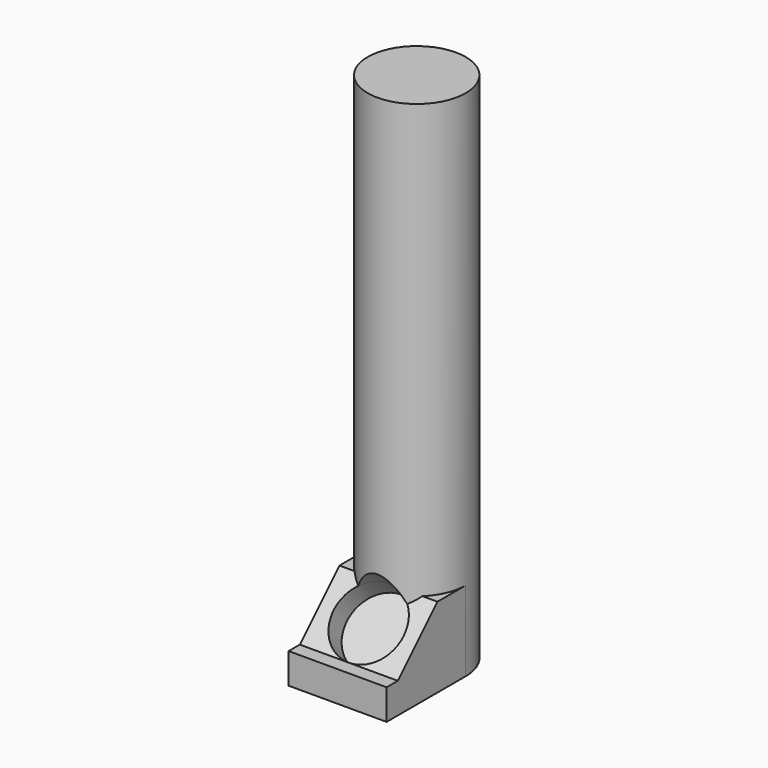
from build123d import *

# Parameters (mm, degrees)
F0_R          = 10.5
F1_DEPTH      = 110
F2_W          = 9
F2_H          = 9
F3_DEPTH      = 5
F6_DEPTH      = 10.5
F6_DEPTH_BACK = 10.5
F7_R          = 7.5
F8_DEPTH      = 5
F8_DEPTH_BACK = 25


with BuildPart() as f1:
    # F0 (on Top) → F1 (new body)
    with BuildSketch(Plane.XY):
        Circle(F0_R)
    extrude(amount=F1_DEPTH)

    # F2 (on Top) → F3 (join)
    with BuildSketch(Plane.XY):
        Rectangle(F2_W, F2_H)
    extrude(amount=-F3_DEPTH)

    # F4 (on Right) → F6 (join, two sides)
    with BuildSketch(Plane.YZ) as f6_sk:
        Polygon((-12.8786796564, 0), (0, 0), (0, 17.1421356237), (-4.0398448916, 17.1421356237), (-7.5753787975, 17.1421356237), (-12.8786796564, 11.8388347648), (-18.1819805153, 6.5355339059), (-21.1819805153, 6.5355339059), (-21.1819805153, 0), align=None)
    extrude(amount=F6_DEPTH)
    extrude(f6_sk.sketch, amount=-F6_DEPTH_BACK)

    # F7 (on face) → F8 (cut, two sides)
    with BuildSketch(Plane(origin=(0, -12.3587572106, 12.3587572106), x_dir=(1, 0, 0), z_dir=(0, -0.7071067812, 0.7071067812))) as f8_sk:
        with Locations((0, -0.7352813742)):
            Circle(F7_R)
    extrude(amount=-F8_DEPTH, mode=Mode.SUBTRACT)
    extrude(f8_sk.sketch, amount=F8_DEPTH_BACK, mode=Mode.SUBTRACT)


solid = f1.part
